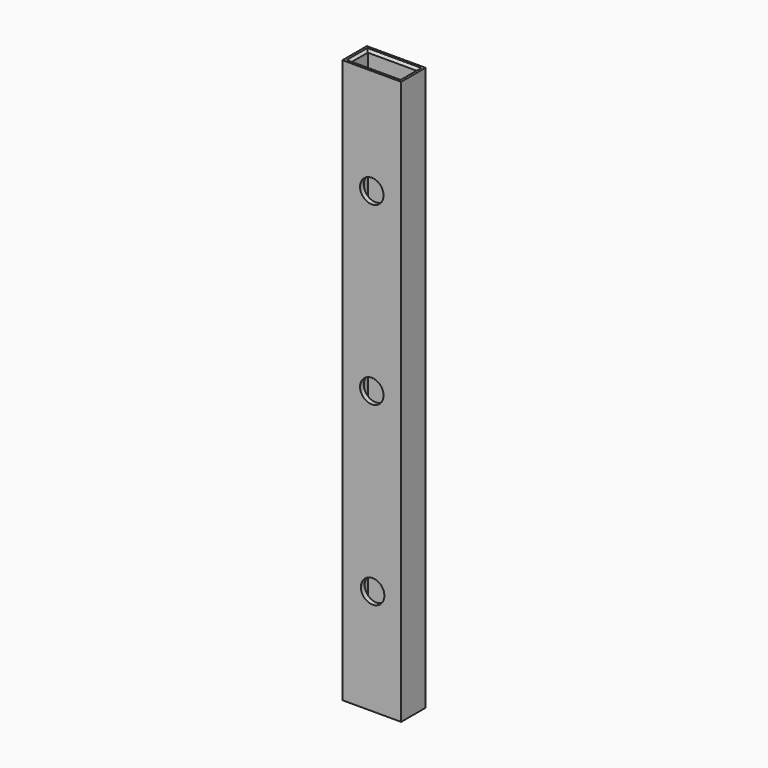
from build123d import *

# Parameters (mm, degrees)
F0_W     = 31.75
F0_H     = 16.51
F0_W_2   = 26.67
F0_H_2   = 11.43
F1_DEPTH = 304.8
F2_SIZE  = 1.27
F3_SIZE  = 1.27
F5_D     = 12.7
F5_DEPTH = 25.4


with BuildPart() as f1:
    # F0 (on Top) → F1 (new body)
    with BuildSketch(Plane.XY):
        Rectangle(F0_W, F0_H)
        Rectangle(F0_W_2, F0_H_2, mode=Mode.SUBTRACT)
    extrude(amount=F1_DEPTH)

    # F2
    f2_edges = [f1.edges().sort_by_distance(p)[0] for p in [
        (0, 5.715, 304.8),
        (-13.335, 0, 304.8),
        (0, -5.715, 304.8),
        (13.335, 0, 304.8),
    ]]
    chamfer(f2_edges, length=F2_SIZE)

    # F3
    f3_edges = [f1.edges().sort_by_distance(p)[0] for p in [
        (13.335, 0, 0),
        (0, 5.715, 0),
        (-13.335, 0, 0),
        (0, -5.715, 0),
    ]]
    chamfer(f3_edges, length=F3_SIZE)

    # F5
    with Locations(Plane.XZ.offset(8.255)):
        with Locations((0, 152.39365), (0, 247.65), (0.458365, 57.15)):
            Hole(F5_D / 2, depth=F5_DEPTH)


solid = f1.part
